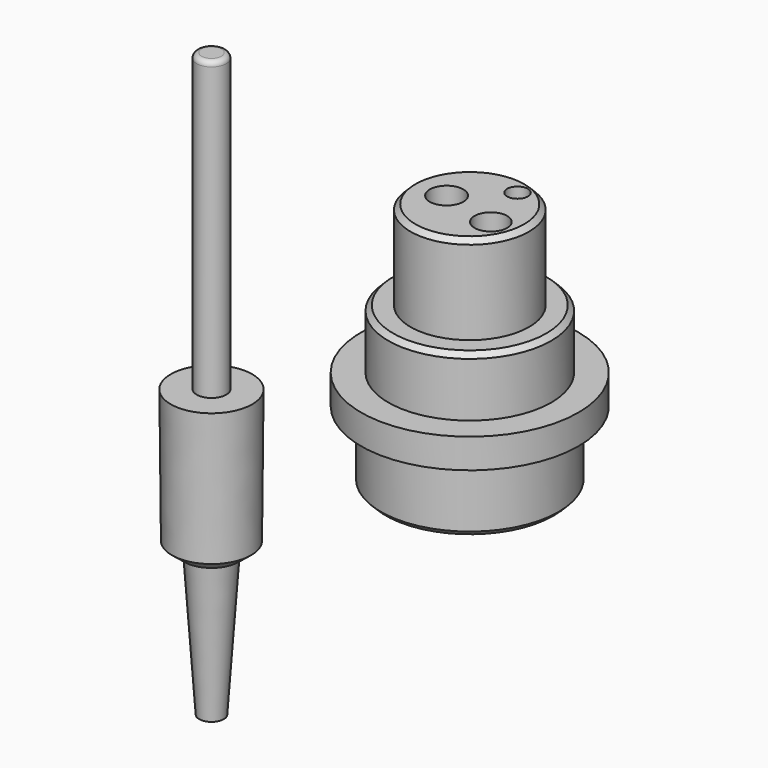
from build123d import *

# Parameters (mm, degrees)
F0_R            = 22
F1_DEPTH        = 6
F2_R            = 16.5
F3_DEPTH        = 12
F4_R            = 12
F5_DEPTH        = 18
F6_R            = 18
F7_DEPTH        = 14
F8_SIZE         = 1
F9_SIZE         = 1
F14_D           = 6.8
F14_DEPTH       = 13.75
F14_TIP         = 2.0429261047
F15_D           = 8.8
F15_DEPTH       = 45
F15_CBORE_D     = 20
F15_CBORE_DEPTH = 15
F15_TIP         = 2.6437867237
F16_D           = 6.6
F17_D           = 4.2


with BuildPart() as f1:
    # F0 (on Top) → F1 (new body)
    with BuildSketch(Plane.XY):
        Circle(F0_R)
    extrude(amount=F1_DEPTH)

    # F2 (on face) → F3 (join)
    with BuildSketch(Plane.XY.offset(6)):
        Circle(F2_R)
    extrude(amount=F3_DEPTH)

    # F4 (on face) → F5 (join)
    with BuildSketch(Plane.XY.offset(18)):
        Circle(F4_R)
    extrude(amount=F5_DEPTH)

    # F6 (on face) → F7 (join)
    with BuildSketch(Plane(origin=(0, 0, 0), x_dir=(1, 0, 0), z_dir=(0, 0, -1))):
        Circle(F6_R)
    extrude(amount=F7_DEPTH)

    # F8
    f8_edges = [f1.edges().sort_by_distance(p)[0] for p in [
        (-18, 0, -14),
        (-16.5, 0, 18),
    ]]
    chamfer(f8_edges, length=F8_SIZE)

    # F9
    f9_edges = [f1.edges().sort_by_distance(p)[0] for p in [
        (-12, 0, 36),
    ]]
    chamfer(f9_edges, length=F9_SIZE)

    # F14
    with Locations(Plane.XY.offset(36)):
        with Locations((-4.6984474175, 0)):
            Hole(F14_D / 2, depth=F14_DEPTH)
            with Locations((0, 0, -(F14_DEPTH + F14_TIP / 2))):  # 118° drill point
                Cone(0, F14_D / 2, F14_TIP, mode=Mode.SUBTRACT)

    # F15
    with Locations(Plane(origin=(0, 0, -14), x_dir=(1, 0, 0), z_dir=(0, 0, -1))):
        with Locations((-4.6984474175, 0)):
            CounterBoreHole(F15_D / 2, F15_CBORE_D / 2, F15_CBORE_DEPTH, depth=F15_DEPTH)
            with Locations((0, 0, -(F15_DEPTH + F15_TIP / 2))):  # 118° drill point
                Cone(0, F15_D / 2, F15_TIP, mode=Mode.SUBTRACT)

    # F16 (through all)
    with Locations(Plane.XY.offset(36)):
        with Locations((6.3995998353, -2.6695812121)):
            Hole(F16_D / 2)

    # F17 (through all)
    with Locations(Plane.XY.offset(36)):
        with Locations((3.4276307561, 7.7938595787)):
            Hole(F17_D / 2)


with BuildPart() as f11:
    # F10 (on Front) → F11 (revolve)
    with BuildSketch(Plane.XZ):
        with BuildLine():
            Line((-44.3012864141, -41), (-44.0512864141, -14))
            Line((-44.0512864141, -14), (-49.3012864141, -14))
            Line((-49.3012864141, -14), (-49.3012864141, 45))
            ThreePointArc((-49.3012864141, 45), (-49.5941796329, 45.7071067812), (-50.3012864141, 46))
            Line((-50.3012864141, 46), (-52.3012864141, 46))
            Line((-52.3012864141, 46), (-52.3012864141, -41.5))
            Line((-52.3012864141, -41.5), (-52.3012864141, -72))
            Line((-52.3012864141, -72), (-49.8012864141, -72))
            Line((-49.8012864141, -72), (-47.8012864141, -43))
            Line((-47.8012864141, -43), (-46.8012864141, -43))
            Line((-46.8012864141, -43), (-44.3012864141, -41))
        make_face()
    revolve(axis=Axis((-52.3012864141, 0, 2.25), (0, 0, 1)))


solid = Compound([f1.part, f11.part])
